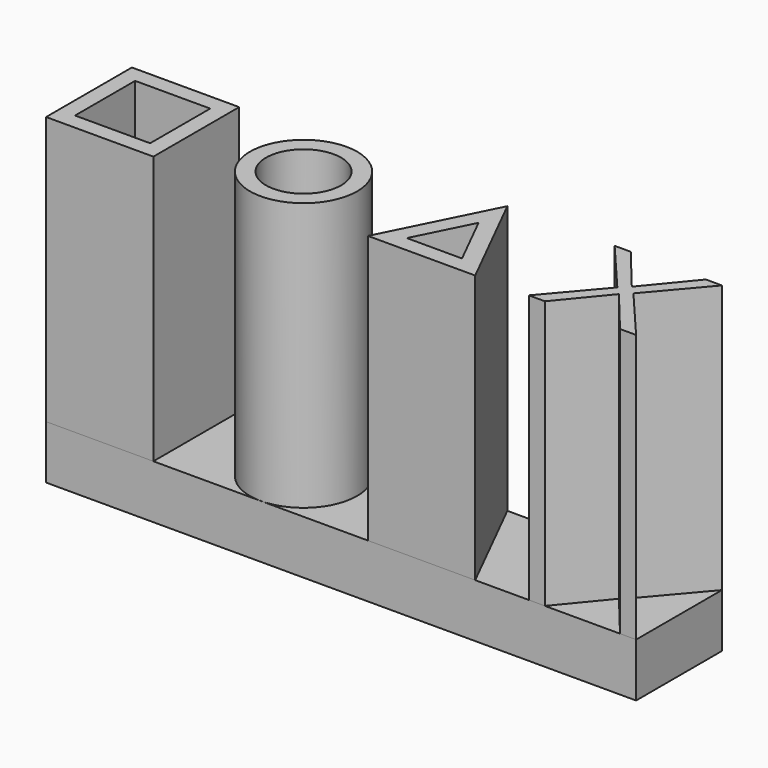
from build123d import *

# Parameters (mm, degrees)
F0_W      = 279.4
F0_H      = 50.8
F1_DEPTH  = 25.4
F2_W      = 50.8
F2_H      = 50.8
F3_DEPTH  = 127
F4_W      = 35.56
F4_H      = 35.56
F5_DEPTH  = 127
F6_R      = 25.4
F6_R_2    = 17.78
F7_DEPTH  = 127
F9_DEPTH  = 127
F11_DEPTH = 127


with BuildPart() as f1:
    # F0 (on Top) → F1 (new body)
    with BuildSketch(Plane.XY):
        Rectangle(F0_W, F0_H)
    extrude(amount=-F1_DEPTH)


with BuildPart() as f3:
    # F2 (on face) → F3 (new body)
    with BuildSketch(Plane.XY):
        with Locations((-114.3, 0)):
            Rectangle(F2_W, F2_H)
    extrude(amount=F3_DEPTH)

    # F4 (on face) → F5 (cut)
    with BuildSketch(Plane.XY.offset(127)):
        with Locations((-114.3, 0)):
            Rectangle(F4_W, F4_H)
    extrude(amount=-F5_DEPTH, mode=Mode.SUBTRACT)


with BuildPart() as f7:
    # F6 (on face) → F7 (new body)
    with BuildSketch(Plane.XY):
        with Locations((-38.1, 0)):
            Circle(F6_R)
        with Locations((-38.1, 0)):
            Circle(F6_R_2, mode=Mode.SUBTRACT)
    extrude(amount=F7_DEPTH)


with BuildPart() as f9:
    # F8 (on face) → F9 (new body)
    with BuildSketch(Plane.XY):
        Polygon((38.1, 25.4), (12.7, -25.4), (63.5, -25.4), align=None)
        Polygon((25.029419, -17.78), (38.1, 8.361162), (51.170581, -17.78), align=None, mode=Mode.SUBTRACT)
    extrude(amount=F9_DEPTH)


with BuildPart() as f11:
    # F10 (on face) → F11 (new body)
    with BuildSketch(Plane.XY):
        Polygon((110.49, 0), (88.9, -25.4), (96.52, -25.4), (114.3, -3.81), (132.08, -25.4), (139.7, -25.4), (118.11, 0), (139.7, 25.4), (132.08, 25.4), (114.3, 3.81), (96.52, 25.4), (88.9, 25.4), align=None)
    extrude(amount=F11_DEPTH)


solid = Compound([f1.part, f3.part, f7.part, f9.part, f11.part])
